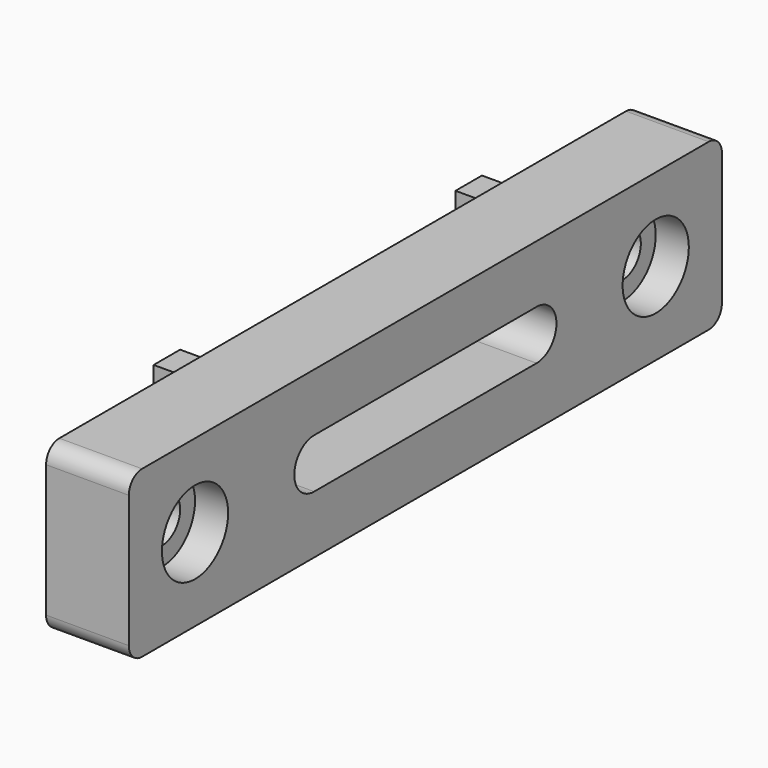
from build123d import *

# Parameters (mm, degrees)
SKETCH_W         = 89.59788
SKETCH_H         = 20
PAD_DEPTH        = 10
SKETCH001_W      = 4
SKETCH001_H      = 19
PAD001_DEPTH     = 3
HOLE_D           = 5.5
HOLE_DEPTH       = 25
HOLE_CBORE_D     = 10
HOLE_CBORE_DEPTH = 4
FILLET_R         = 2


with BuildPart() as part:
    # Sketch (on Face2 of Binder) → Pad (new body)
    with BuildSketch(Plane.YZ.offset(237.459106)):
        with Locations((0.426081, 189.84877)):
            Rectangle(SKETCH_W, SKETCH_H)
        with BuildLine():
            ThreePointArc((-16.372859, 192.857809), (-19.372859, 189.857809), (-16.372859, 186.857809))
            Line((-16.372859, 186.857809), (17.225021, 186.857809))
            ThreePointArc((17.225021, 186.857809), (20.225021, 189.857809), (17.225021, 192.857809))
            Line((-16.372859, 192.857809), (17.225021, 192.857809))
        make_face(mode=Mode.SUBTRACT)
    extrude(amount=PAD_DEPTH)

    # Sketch001 (on Face9 of Pad) → Pad001 (join)
    with BuildSketch(Plane(origin=(237.459106, 0, 0), x_dir=(0, -1, 0), z_dir=(-1, 0, 0))):
        with Locations((-23.225021, 189.84877)):
            Rectangle(SKETCH001_W, SKETCH001_H)
        with Locations((22.372859, 189.857809)):
            Rectangle(SKETCH001_W, SKETCH001_H)
    extrude(amount=PAD001_DEPTH)

    # Hole
    with Locations(Plane.YZ.offset(247.459106)):
        with Locations((-34.372859, 189.857809), (35.225021, 189.84877)):
            CounterBoreHole(HOLE_D / 2, HOLE_CBORE_D / 2, HOLE_CBORE_DEPTH, depth=HOLE_DEPTH)

    # Fillet
    fillet_edges = [part.edges().sort_by_distance(p)[0] for p in [
        (242.459106, 45.225021, 199.84877),
        (242.459106, 45.225021, 179.84877),
        (242.459106, -44.372859, 199.84877),
        (242.459106, -44.372859, 179.84877),
    ]]
    fillet(fillet_edges, radius=FILLET_R)


with BuildPart() as part_1:
    # Body placement: moved
    add(part.part.moved(Location((-253.7, 0, -183.9))))


solid = part_1.part
